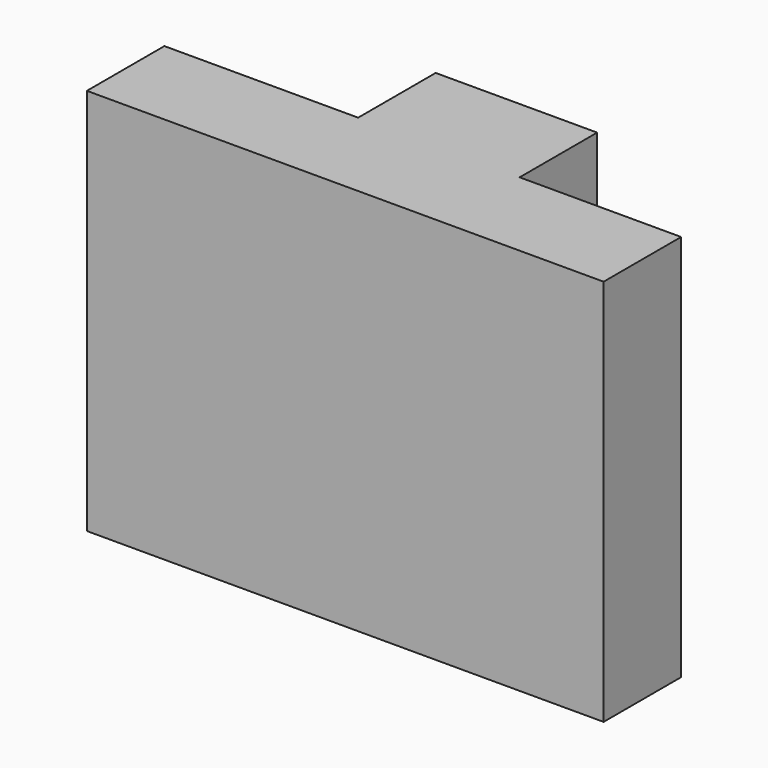
from build123d import *

# Parameters (mm, degrees)
F0_W     = 80
F0_H     = 60
F1_DEPTH = 15
F3_DEPTH = 15


with BuildPart() as f1:
    # F0 (on Front) → F1 (new body)
    with BuildSketch(Plane.XZ):
        with Locations((40, 30)):
            Rectangle(F0_W, F0_H)
    extrude(amount=F1_DEPTH)

    # F2 (on Front) → F3 (join)
    with BuildSketch(Plane.XZ):
        Polygon((0, 30), (0, 0), (55, 0), (55, 60), (30, 60), (30, 30), align=None)
    extrude(amount=-F3_DEPTH)


solid = f1.part
